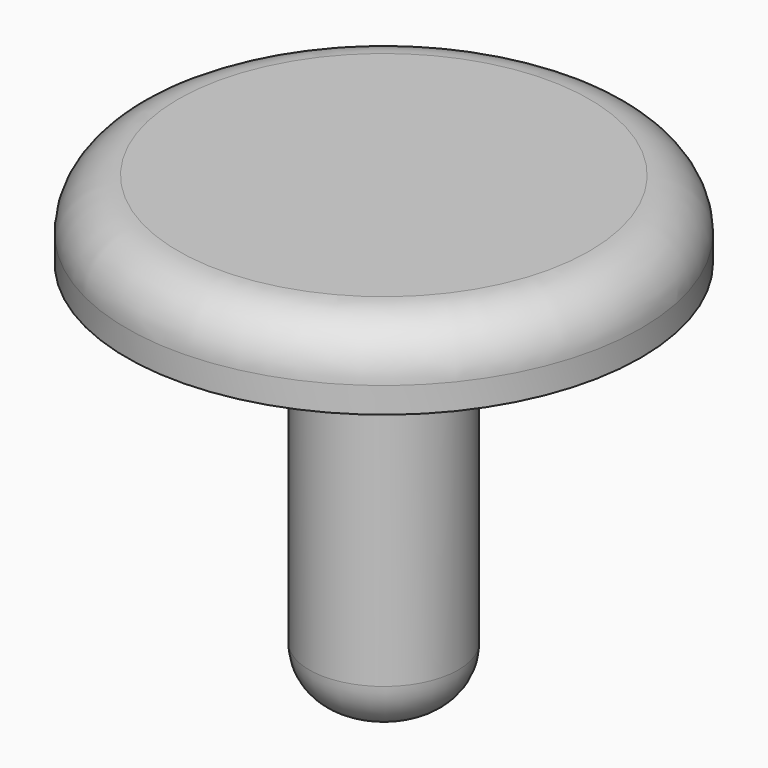
from build123d import *

# Parameters (mm, degrees)
F2_R = 2


with BuildPart() as f1:
    # F0 (on Front) → F1 (revolve)
    with BuildSketch(Plane.XZ):
        Polygon((10, 0), (0, 0), (0, -3), (0, -18), (2.9, -18), (2.9, -3), (10, -3), align=None)
    revolve(axis=Axis((0, 0, -11.278831), (0, 0, -1)))

    # F2
    f2_edges = [f1.edges().sort_by_distance(p)[0] for p in [
        (-2.9, 0, -18),
        (-10, 0, 0),
        (-2.9, 0, -3),
        (2.9, 0, -10.5),
    ]]
    fillet(f2_edges, radius=F2_R)


solid = f1.part
